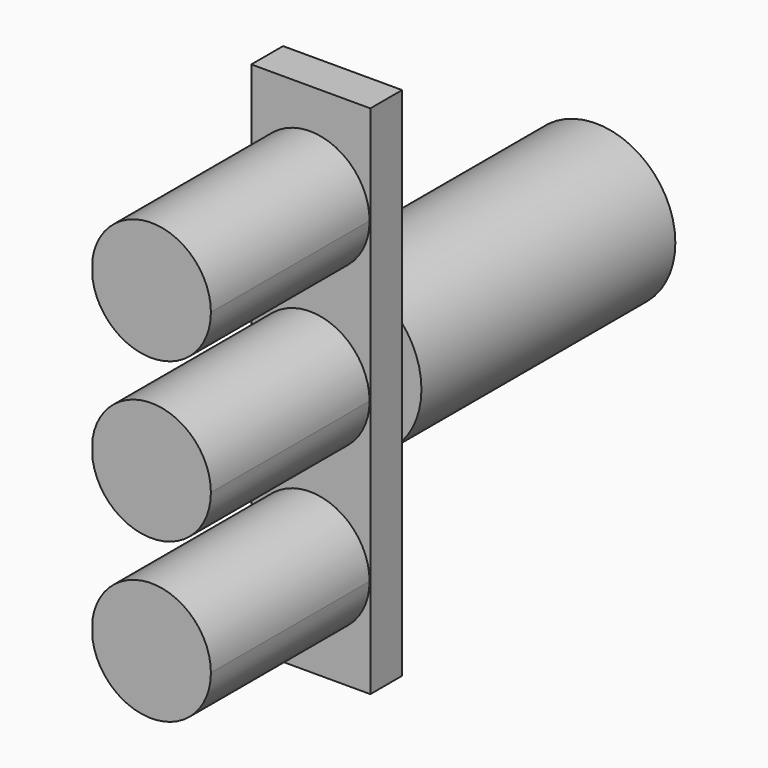
from build123d import *

# Parameters (mm, degrees)
F1_DEPTH = 5
F2_DEPTH = 30
F3_R     = 10
F4_DEPTH = 40


with BuildPart() as f1:
    # F0 (on Front) → F1 (new body)
    with BuildSketch(Plane.XZ):
        with BuildLine():
            Line((-6.7781025575, 26.9709620651), (-21.7781025575, 26.9709620651))
            Line((-21.7781025575, 26.9709620651), (-21.7781025575, 15.6716265028))
            ThreePointArc((-21.7781025575, 15.6716265028), (-13.7725553731, 21.9467404224), (-6.874832678, 14.4709620651))
            ThreePointArc((-6.874832678, 14.4709620651), (-13.7725553731, 6.9951837077), (-21.7781025575, 13.2702976273))
            Line((-21.7781025575, 13.2702976273), (-21.7781025575, -4.3283788873))
            ThreePointArc((-21.7781025575, -4.3283788873), (-13.7725572204, 1.9467406416), (-6.8748318039, -5.5290379349))
            ThreePointArc((-6.8748318039, -5.5290379349), (-13.7725572204, -13.0048165115), (-21.7781025575, -6.7296969826))
            Line((-21.7781025575, -6.7296969826), (-21.7781025575, -24.3283788873))
            ThreePointArc((-21.7781025575, -24.3283788873), (-13.7725572204, -18.0532593584), (-6.8748318039, -25.5290379349))
            ThreePointArc((-6.8748318039, -25.5290379349), (-13.7725572204, -33.0048165115), (-21.7781025575, -26.7296969826))
            Line((-21.7781025575, -26.7296969826), (-21.7781025575, -38.0290379349))
            Line((-21.7781025575, -38.0290379349), (-6.7781025575, -38.0290379349))
            Line((-6.7781025575, -38.0290379349), (-6.7781025575, 26.9709620651))
        make_face()
    extrude(amount=F1_DEPTH)


with BuildPart() as f2:
    # F0 (on Front) → F2 (new body)
    with BuildSketch(Plane.XZ):
        with BuildLine():
            ThreePointArc((-6.874832678, 14.4709620651), (-13.7725553731, 21.9467404224), (-21.7781025575, 15.6716265028))
            Line((-21.7781025575, 15.6716265028), (-21.7781025575, 13.2702976273))
            ThreePointArc((-21.7781025575, 13.2702976273), (-13.7725553731, 6.9951837077), (-6.874832678, 14.4709620651))
        make_face()
    extrude(amount=F2_DEPTH)


with BuildPart() as f2b:
    # F0 (on Front) → F2, piece 2 (new body)
    with BuildSketch(Plane.XZ):
        with BuildLine():
            ThreePointArc((-6.8748318039, -5.5290379349), (-13.7725572204, 1.9467406416), (-21.7781025575, -4.3283788873))
            Line((-21.7781025575, -4.3283788873), (-21.7781025575, -6.7296969826))
            ThreePointArc((-21.7781025575, -6.7296969826), (-13.7725572204, -13.0048165115), (-6.8748318039, -5.5290379349))
        make_face()
    extrude(amount=F2_DEPTH)


with BuildPart() as f2c:
    # F0 (on Front) → F2, piece 3 (new body)
    with BuildSketch(Plane.XZ):
        with BuildLine():
            Line((-21.7781025575, -24.3283788873), (-21.7781025575, -26.7296969826))
            ThreePointArc((-21.7781025575, -26.7296969826), (-13.7725572204, -33.0048165115), (-6.8748318039, -25.5290379349))
            ThreePointArc((-6.8748318039, -25.5290379349), (-13.7725572204, -18.0532593584), (-21.7781025575, -24.3283788873))
        make_face()
    extrude(amount=F2_DEPTH)


with BuildPart() as f4:
    # F3 (on Front) → F4 (new body)
    with BuildSketch(Plane.XZ):
        with Locations((-14.3346777186, -5.443548318)):
            Circle(F3_R)
    extrude(amount=-F4_DEPTH)


solid = Compound([f1.part, f2.part, f2b.part, f2c.part, f4.part])
